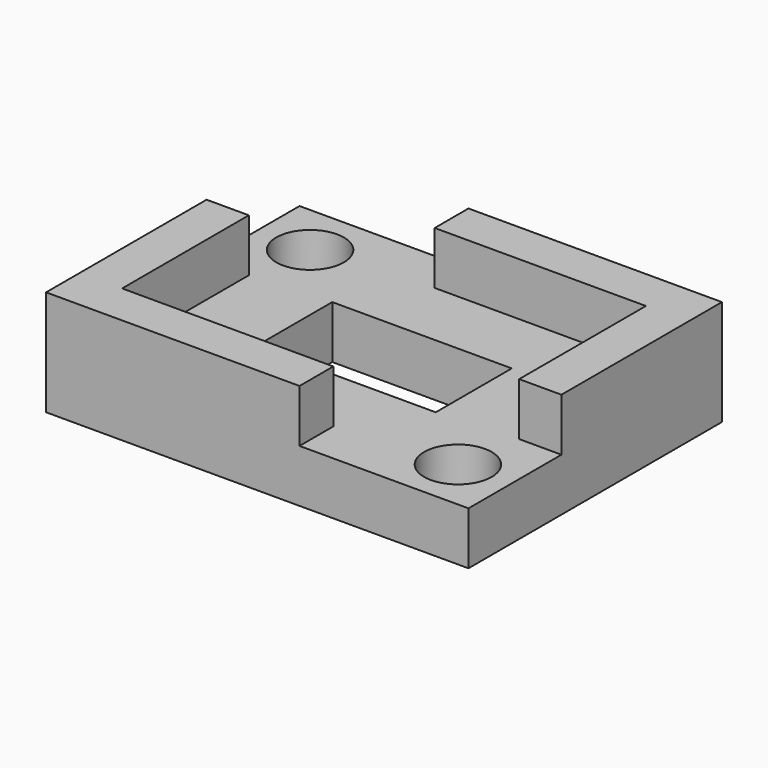
from build123d import *

# Parameters (mm, degrees)
F0_R     = 2.032
F0_W     = 10.795
F0_H     = 5.715
F1_DEPTH = 3.175
F2_DEPTH = 6.35


with BuildPart() as f1:
    # F0 (on Top) → F1 (new body)
    with BuildSketch(Plane.XY):
        Polygon((15.24, 2.54), (15.24, 0), (25.4, 0), (25.4, 6.985), (22.86, 6.985), (22.86, 16.51), (10.16, 16.51), (10.16, 19.05), (0, 19.05), (0, 12.065), (2.54, 12.065), (2.54, 2.54), align=None)
        with Locations((22.225, 3.175)):
            Circle(F0_R, mode=Mode.SUBTRACT)
        with Locations((12.7, 9.525)):
            Rectangle(F0_W, F0_H, mode=Mode.SUBTRACT)
        with Locations((3.175, 15.875)):
            Circle(F0_R, mode=Mode.SUBTRACT)
    extrude(amount=F1_DEPTH)

    # F0 (on Top) → F2 (join)
    with BuildSketch(Plane.XY):
        Polygon((0, 12.065), (0, 0), (15.24, 0), (15.24, 2.54), (2.54, 2.54), (2.54, 12.065), align=None)
        Polygon((22.86, 6.985), (25.4, 6.985), (25.4, 19.05), (10.16, 19.05), (10.16, 16.51), (22.86, 16.51), align=None)
    extrude(amount=F2_DEPTH)


solid = f1.part
